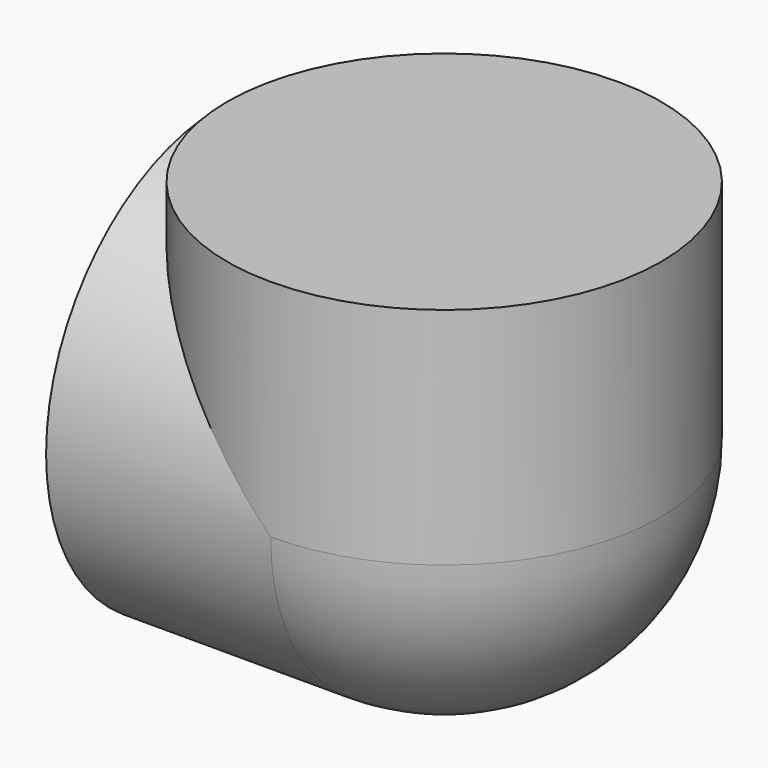
from build123d import *

# Parameters (mm, degrees)
CYLINDER_R        = 28
CYLINDER_DEPTH    = 29
CYLINDER001_R     = 28
CYLINDER001_DEPTH = 29


with BuildPart() as cylinder:
    # Cylinder → Cylinder (new body)
    with BuildSketch(Plane(origin=(28, 0, 0), x_dir=(1, 0, 0), z_dir=(0, 0, 1))):
        Circle(CYLINDER_R)
    extrude(amount=CYLINDER_DEPTH)


with BuildPart() as sphere:
    # Sphere → Sphere (revolve)
    with BuildSketch(Plane(origin=(28, 0, 0), x_dir=(1, 0, 0), z_dir=(0, -1, 0))):
        with BuildLine():
            ThreePointArc((0, -28), (28, 0), (0, 28))
            Line((0, 28), (0, -28))
        make_face()
    revolve(axis=Axis((28, 0, 0), (0, 0, 1)))


with BuildPart() as fusion:
    # Cylinder001 → Cylinder001 (new body)
    with BuildSketch(Plane.ZY.offset(-28)):
        Circle(CYLINDER001_R)
    extrude(amount=CYLINDER001_DEPTH)

    # Fusion: union Cylinder, Sphere
    add(cylinder.part)
    add(sphere.part)


solid = fusion.part
